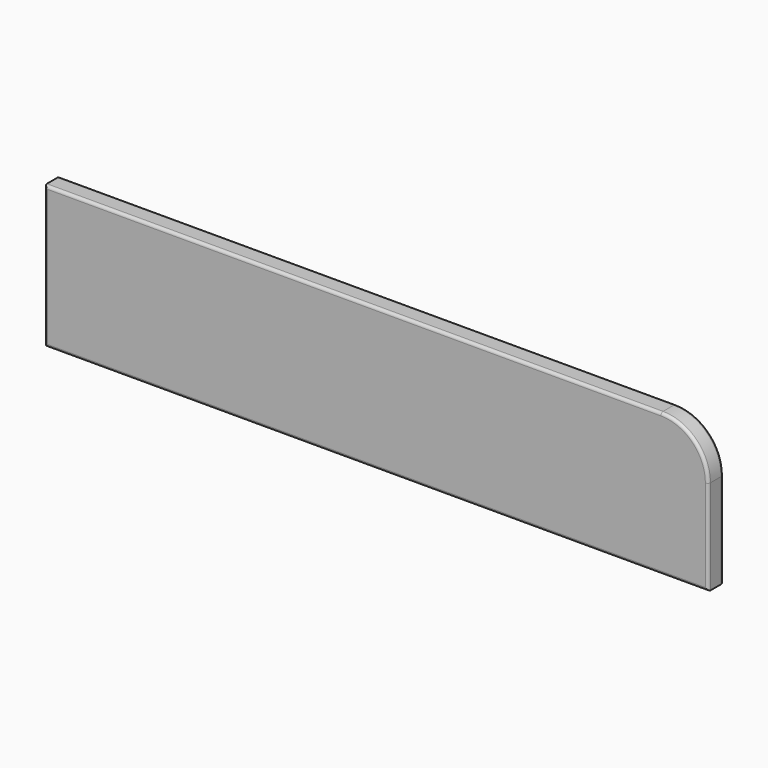
from build123d import *

# Parameters (mm, degrees)
F1_DEPTH = 20
F4_R     = 3


with BuildPart() as f1:
    # F0 (on Front) → F1 (new body)
    with BuildSketch(Plane.XZ):
        with BuildLine():
            Line((500.175496, 70.414034), (-149.824504, 70.414034))
            Line((-149.824504, 70.414034), (-149.824504, -79.585966))
            Line((-149.824504, -79.585966), (550.175496, -79.585966))
            Line((550.175496, -79.585966), (550.175496, 20.414034))
            ThreePointArc((550.175496, 20.414034), (535.530836, 55.769373), (500.175496, 70.414034))
        make_face()
    extrude(amount=F1_DEPTH)

    # F4
    f4_edges = [f1.edges().sort_by_distance(p)[0] for p in [
        (175.175496, 0, 70.414034),
        (-149.824504, 0, -4.585966),
        (200.175496, 0, -79.585966),
        (550.175496, 0, -29.585966),
        (535.530836, 0, 55.769373),
        (175.175496, -20, 70.414034),
        (-149.824504, -20, -4.585966),
        (200.175496, -20, -79.585966),
        (550.175496, -20, -29.585966),
        (535.530836, -20, 55.769373),
    ]]
    fillet(f4_edges, radius=F4_R)


solid = f1.part
